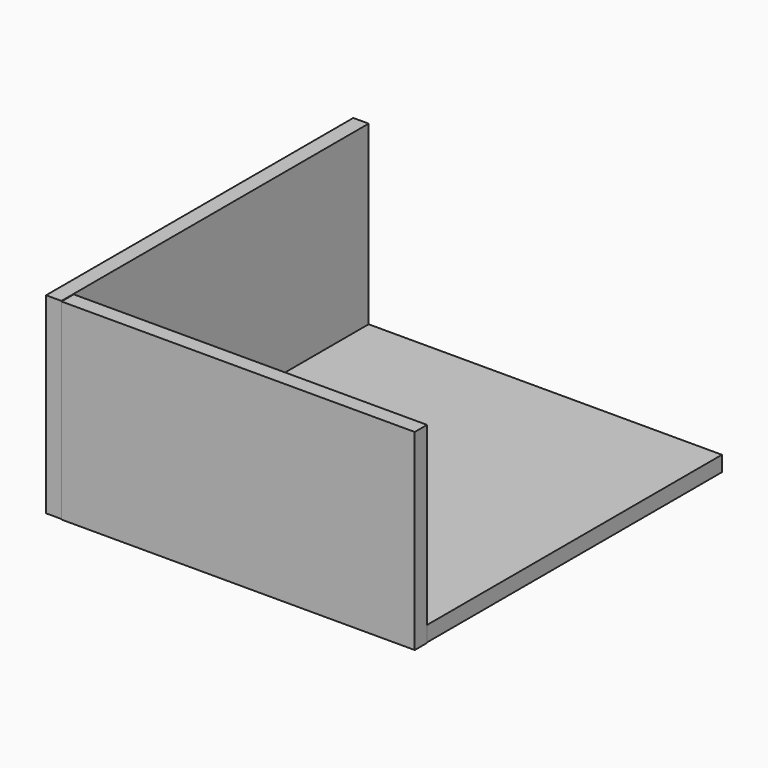
from build123d import *

# Parameters (mm, degrees)
F0_W          = 368
F0_H          = 16
F1_DEPTH      = 384
F2_DEPTH      = 400
F3_W          = 16
F3_H          = 200
F4_DEPTH      = 325
F4_DEPTH_BACK = 43


with BuildPart() as f1:
    # F0 (on Front) → F1 (new body)
    with BuildSketch(Plane.XZ):
        with Locations((140.962274, -54.733276)):
            Rectangle(F0_W, F0_H)
    extrude(amount=F1_DEPTH)

    # F0 (on Front) → F2 (join)
    with BuildSketch(Plane.XZ):
        Polygon((-43.037726, 137.266724), (-59.037726, 137.266724), (-59.037726, -62.733276), (-43.037726, -62.733276), (-43.037726, -46.733276), align=None)
    extrude(amount=F2_DEPTH)


with BuildPart() as f4:
    # F3 (on Right) → F4 (new body, two sides)
    with BuildSketch(Plane.YZ) as f4_sk:
        with Locations((-392.011985, 36.774969)):
            Rectangle(F3_W, F3_H)
    extrude(amount=F4_DEPTH)
    extrude(f4_sk.sketch, amount=-F4_DEPTH_BACK)


solid = Compound([f1.part, f4.part])
